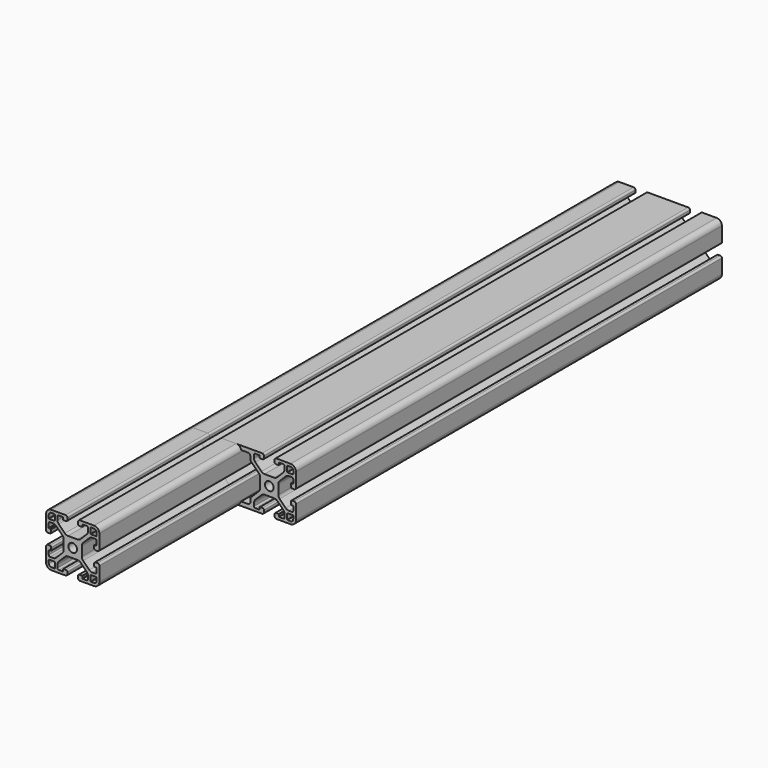
from build123d import *

# Parameters (mm, degrees)
F0_R     = 2.45
F1_DEPTH = 400
F2_R     = 2.45
F3_DEPTH = 300


with BuildPart() as f1:
    # F0 (on Front) → F1 (new body)
    with BuildSketch(Plane.XZ):
        with BuildLine():
            Line((-4, 15), (-12, 15))
            ThreePointArc((-12, 15), (-14.12132, 14.12132), (-15, 12))
            Line((-15, 12), (-15, 4))
            ThreePointArc((-15, 4), (-14.707107, 3.292893), (-14, 3))
            Line((-14, 3), (-12.85, 3))
            ThreePointArc((-12.85, 3), (-12.31967, 3.21967), (-12.1, 3.75))
            Line((-12.1, 3.75), (-12.1, 5.2))
            ThreePointArc((-12.1, 5.2), (-12.158579, 5.341421), (-12.3, 5.4))
            Line((-12.3, 5.4), (-13.3, 5.4))
            ThreePointArc((-13.3, 5.4), (-13.441421, 5.458579), (-13.5, 5.6))
            Line((-13.5, 5.6), (-13.5, 7.85))
            ThreePointArc((-13.5, 7.85), (-13.28033, 8.38033), (-12.75, 8.6))
            Line((-12.75, 8.6), (-11.049747, 8.6))
            ThreePointArc((-11.049747, 8.6), (-10.093039, 8.409699), (-9.281981, 7.867767))
            Line((-9.281981, 7.867767), (-5.832233, 4.418019))
            ThreePointArc((-5.832233, 4.418019), (-5.290301, 3.606961), (-5.1, 2.650253))
            Line((-5.1, 2.650253), (-5.1, 0))
            Line((-5.1, 0), (-5.1, -2.650253))
            ThreePointArc((-5.1, -2.650253), (-5.290301, -3.606961), (-5.832233, -4.418019))
            Line((-5.832233, -4.418019), (-9.281981, -7.867767))
            ThreePointArc((-9.281981, -7.867767), (-10.093039, -8.409699), (-11.049747, -8.6))
            Line((-11.049747, -8.6), (-12.75, -8.6))
            ThreePointArc((-12.75, -8.6), (-13.28033, -8.38033), (-13.5, -7.85))
            Line((-13.5, -7.85), (-13.5, -5.6))
            ThreePointArc((-13.5, -5.6), (-13.441421, -5.458579), (-13.3, -5.4))
            Line((-13.3, -5.4), (-12.3, -5.4))
            ThreePointArc((-12.3, -5.4), (-12.158579, -5.341421), (-12.1, -5.2))
            Line((-12.1, -5.2), (-12.1, -3.75))
            ThreePointArc((-12.1, -3.75), (-12.31967, -3.21967), (-12.85, -3))
            Line((-12.85, -3), (-14, -3))
            ThreePointArc((-14, -3), (-14.707107, -3.292893), (-15, -4))
            Line((-15, -4), (-15, -12))
            ThreePointArc((-15, -12), (-14.12132, -14.12132), (-12, -15))
            Line((-12, -15), (-4, -15))
            ThreePointArc((-4, -15), (-3.292893, -14.707107), (-3, -14))
            Line((-3, -14), (-3, -12.85))
            ThreePointArc((-3, -12.85), (-3.21967, -12.31967), (-3.75, -12.1))
            Line((-3.75, -12.1), (-5.2, -12.1))
            ThreePointArc((-5.2, -12.1), (-5.341421, -12.158579), (-5.4, -12.3))
            Line((-5.4, -12.3), (-5.4, -13.3))
            ThreePointArc((-5.4, -13.3), (-5.458579, -13.441421), (-5.6, -13.5))
            Line((-5.6, -13.5), (-7.85, -13.5))
            ThreePointArc((-7.85, -13.5), (-8.38033, -13.28033), (-8.6, -12.75))
            Line((-8.6, -12.75), (-8.6, -11.049747))
            ThreePointArc((-8.6, -11.049747), (-8.409699, -10.093039), (-7.867767, -9.281981))
            Line((-7.867767, -9.281981), (-4.418019, -5.832233))
            ThreePointArc((-4.418019, -5.832233), (-3.606961, -5.290301), (-2.650253, -5.1))
            Line((-2.650253, -5.1), (0, -5.1))
            Line((0, -5.1), (2.650253, -5.1))
            ThreePointArc((2.650253, -5.1), (3.606961, -5.290301), (4.418019, -5.832233))
            Line((4.418019, -5.832233), (7.867767, -9.281981))
            ThreePointArc((7.867767, -9.281981), (8.409699, -10.093039), (8.6, -11.049747))
            Line((8.6, -11.049747), (8.6, -12.75))
            ThreePointArc((8.6, -12.75), (8.38033, -13.28033), (7.85, -13.5))
            Line((7.85, -13.5), (5.6, -13.5))
            ThreePointArc((5.6, -13.5), (5.458579, -13.441421), (5.4, -13.3))
            Line((5.4, -13.3), (5.4, -12.3))
            ThreePointArc((5.4, -12.3), (5.341421, -12.158579), (5.2, -12.1))
            Line((5.2, -12.1), (3.75, -12.1))
            ThreePointArc((3.75, -12.1), (3.21967, -12.31967), (3, -12.85))
            Line((3, -12.85), (3, -14))
            ThreePointArc((3, -14), (3.292893, -14.707107), (4, -15))
            Line((4, -15), (12, -15))
            ThreePointArc((12, -15), (14.12132, -14.12132), (15, -12))
            Line((15, -12), (15, -4))
            ThreePointArc((15, -4), (14.707107, -3.292893), (14, -3))
            Line((14, -3), (12.85, -3))
            ThreePointArc((12.85, -3), (12.31967, -3.21967), (12.1, -3.75))
            Line((12.1, -3.75), (12.1, -5.2))
            ThreePointArc((12.1, -5.2), (12.158579, -5.341421), (12.3, -5.4))
            Line((12.3, -5.4), (13.3, -5.4))
            ThreePointArc((13.3, -5.4), (13.441421, -5.458579), (13.5, -5.6))
            Line((13.5, -5.6), (13.5, -7.85))
            ThreePointArc((13.5, -7.85), (13.28033, -8.38033), (12.75, -8.6))
            Line((12.75, -8.6), (11.049747, -8.6))
            ThreePointArc((11.049747, -8.6), (10.093039, -8.409699), (9.281981, -7.867767))
            Line((9.281981, -7.867767), (5.832233, -4.418019))
            ThreePointArc((5.832233, -4.418019), (5.290301, -3.606961), (5.1, -2.650253))
            Line((5.1, -2.650253), (5.1, 0))
            Line((5.1, 0), (5.1, 2.650253))
            ThreePointArc((5.1, 2.650253), (5.290301, 3.606961), (5.832233, 4.418019))
            Line((5.832233, 4.418019), (9.281981, 7.867767))
            ThreePointArc((9.281981, 7.867767), (10.093039, 8.409699), (11.049747, 8.6))
            Line((11.049747, 8.6), (12.75, 8.6))
            ThreePointArc((12.75, 8.6), (13.28033, 8.38033), (13.5, 7.85))
            Line((13.5, 7.85), (13.5, 5.6))
            ThreePointArc((13.5, 5.6), (13.441421, 5.458579), (13.3, 5.4))
            Line((13.3, 5.4), (12.3, 5.4))
            ThreePointArc((12.3, 5.4), (12.158579, 5.341421), (12.1, 5.2))
            Line((12.1, 5.2), (12.1, 3.75))
            ThreePointArc((12.1, 3.75), (12.31967, 3.21967), (12.85, 3))
            Line((12.85, 3), (14, 3))
            ThreePointArc((14, 3), (14.707107, 3.292893), (15, 4))
            Line((15, 4), (15, 12))
            ThreePointArc((15, 12), (14.12132, 14.12132), (12, 15))
            Line((12, 15), (4, 15))
            ThreePointArc((4, 15), (3.292893, 14.707107), (3, 14))
            Line((3, 14), (3, 12.85))
            ThreePointArc((3, 12.85), (3.21967, 12.31967), (3.75, 12.1))
            Line((3.75, 12.1), (5.2, 12.1))
            ThreePointArc((5.2, 12.1), (5.341421, 12.158579), (5.4, 12.3))
            Line((5.4, 12.3), (5.4, 13.3))
            ThreePointArc((5.4, 13.3), (5.458579, 13.441421), (5.6, 13.5))
            Line((5.6, 13.5), (7.85, 13.5))
            ThreePointArc((7.85, 13.5), (8.38033, 13.28033), (8.6, 12.75))
            Line((8.6, 12.75), (8.6, 11.049747))
            ThreePointArc((8.6, 11.049747), (8.409699, 10.093039), (7.867767, 9.281981))
            Line((7.867767, 9.281981), (4.418019, 5.832233))
            ThreePointArc((4.418019, 5.832233), (3.606961, 5.290301), (2.650253, 5.1))
            Line((2.650253, 5.1), (0, 5.1))
            Line((0, 5.1), (-2.650253, 5.1))
            ThreePointArc((-2.650253, 5.1), (-3.606961, 5.290301), (-4.418019, 5.832233))
            Line((-4.418019, 5.832233), (-7.867767, 9.281981))
            ThreePointArc((-7.867767, 9.281981), (-8.409699, 10.093039), (-8.6, 11.049747))
            Line((-8.6, 11.049747), (-8.6, 12.75))
            ThreePointArc((-8.6, 12.75), (-8.38033, 13.28033), (-7.85, 13.5))
            Line((-7.85, 13.5), (-5.6, 13.5))
            ThreePointArc((-5.6, 13.5), (-5.458579, 13.441421), (-5.4, 13.3))
            Line((-5.4, 13.3), (-5.4, 12.3))
            ThreePointArc((-5.4, 12.3), (-5.341421, 12.158579), (-5.2, 12.1))
            Line((-5.2, 12.1), (-3.75, 12.1))
            ThreePointArc((-3.75, 12.1), (-3.21967, 12.31967), (-3, 12.85))
            Line((-3, 12.85), (-3, 14))
            ThreePointArc((-3, 14), (-3.292893, 14.707107), (-4, 15))
        make_face()
        with BuildLine():
            Line((-10.1, -10.3), (-10.1, -13.3))
            ThreePointArc((-10.1, -13.3), (-10.158579, -13.441421), (-10.3, -13.5))
            Line((-10.3, -13.5), (-12, -13.5))
            ThreePointArc((-12, -13.5), (-13.06066, -13.06066), (-13.5, -12))
            Line((-13.5, -12), (-13.5, -10.3))
            ThreePointArc((-13.5, -10.3), (-13.441421, -10.158579), (-13.3, -10.1))
            Line((-13.3, -10.1), (-10.3, -10.1))
            ThreePointArc((-10.3, -10.1), (-10.158579, -10.158579), (-10.1, -10.3))
        make_face(mode=Mode.SUBTRACT)
        with BuildLine():
            ThreePointArc((10.3, -13.5), (10.158579, -13.441421), (10.1, -13.3))
            Line((10.1, -13.3), (10.1, -10.3))
            ThreePointArc((10.1, -10.3), (10.158579, -10.158579), (10.3, -10.1))
            Line((10.3, -10.1), (13.3, -10.1))
            ThreePointArc((13.3, -10.1), (13.441421, -10.158579), (13.5, -10.3))
            Line((13.5, -10.3), (13.5, -12))
            ThreePointArc((13.5, -12), (13.06066, -13.06066), (12, -13.5))
            Line((12, -13.5), (10.3, -13.5))
        make_face(mode=Mode.SUBTRACT)
        with BuildLine():
            ThreePointArc((-13.5, 12), (-13.06066, 13.06066), (-12, 13.5))
            Line((-12, 13.5), (-10.3, 13.5))
            ThreePointArc((-10.3, 13.5), (-10.158579, 13.441421), (-10.1, 13.3))
            Line((-10.1, 13.3), (-10.1, 10.3))
            ThreePointArc((-10.1, 10.3), (-10.158579, 10.158579), (-10.3, 10.1))
            Line((-10.3, 10.1), (-13.3, 10.1))
            ThreePointArc((-13.3, 10.1), (-13.441421, 10.158579), (-13.5, 10.3))
            Line((-13.5, 10.3), (-13.5, 12))
        make_face(mode=Mode.SUBTRACT)
        Circle(F0_R, mode=Mode.SUBTRACT)
        with BuildLine():
            Line((10.1, 10.3), (10.1, 13.3))
            ThreePointArc((10.1, 13.3), (10.158579, 13.441421), (10.3, 13.5))
            Line((10.3, 13.5), (12, 13.5))
            ThreePointArc((12, 13.5), (13.06066, 13.06066), (13.5, 12))
            Line((13.5, 12), (13.5, 10.3))
            ThreePointArc((13.5, 10.3), (13.441421, 10.158579), (13.3, 10.1))
            Line((13.3, 10.1), (10.3, 10.1))
            ThreePointArc((10.3, 10.1), (10.158579, 10.158579), (10.1, 10.3))
        make_face(mode=Mode.SUBTRACT)
    extrude(amount=F1_DEPTH)


with BuildPart() as f3:
    # F2 (on Front) → F3 (new body)
    with BuildSketch(Plane.XZ):
        with BuildLine():
            ThreePointArc((-3, 14), (-3.292893, 14.707107), (-4, 15))
            Line((-4, 15), (-12, 15))
            ThreePointArc((-12, 15), (-14.12132, 14.12132), (-15, 12))
            Line((-15, 12), (-15, 4))
            ThreePointArc((-15, 4), (-14.707107, 3.292893), (-14, 3))
            Line((-14, 3), (-12.85, 3))
            ThreePointArc((-12.85, 3), (-12.31967, 3.21967), (-12.1, 3.75))
            Line((-12.1, 3.75), (-12.1, 5.2))
            ThreePointArc((-12.1, 5.2), (-12.158579, 5.341421), (-12.3, 5.4))
            Line((-12.3, 5.4), (-13.3, 5.4))
            ThreePointArc((-13.3, 5.4), (-13.441421, 5.458579), (-13.5, 5.6))
            Line((-13.5, 5.6), (-13.5, 7.85))
            ThreePointArc((-13.5, 7.85), (-13.28033, 8.38033), (-12.75, 8.6))
            Line((-12.75, 8.6), (-11.049747, 8.6))
            ThreePointArc((-11.049747, 8.6), (-10.093039, 8.409699), (-9.281981, 7.867767))
            Line((-9.281981, 7.867767), (-5.832233, 4.418019))
            ThreePointArc((-5.832233, 4.418019), (-5.290301, 3.606961), (-5.1, 2.650253))
            Line((-5.1, 2.650253), (-5.1, 0))
            Line((-5.1, 0), (-5.1, -2.650253))
            ThreePointArc((-5.1, -2.650253), (-5.290301, -3.606961), (-5.832233, -4.418019))
            Line((-5.832233, -4.418019), (-9.281981, -7.867767))
            ThreePointArc((-9.281981, -7.867767), (-10.093039, -8.409699), (-11.049747, -8.6))
            Line((-11.049747, -8.6), (-12.75, -8.6))
            ThreePointArc((-12.75, -8.6), (-13.28033, -8.38033), (-13.5, -7.85))
            Line((-13.5, -7.85), (-13.5, -5.6))
            ThreePointArc((-13.5, -5.6), (-13.441421, -5.458579), (-13.3, -5.4))
            Line((-13.3, -5.4), (-12.3, -5.4))
            ThreePointArc((-12.3, -5.4), (-12.158579, -5.341421), (-12.1, -5.2))
            Line((-12.1, -5.2), (-12.1, -3.75))
            ThreePointArc((-12.1, -3.75), (-12.31967, -3.21967), (-12.85, -3))
            Line((-12.85, -3), (-14, -3))
            ThreePointArc((-14, -3), (-14.707107, -3.292893), (-15, -4))
            Line((-15, -4), (-15, -12))
            ThreePointArc((-15, -12), (-14.12132, -14.12132), (-12, -15))
            Line((-12, -15), (-4, -15))
            ThreePointArc((-4, -15), (-3.292893, -14.707107), (-3, -14))
            Line((-3, -14), (-3, -12.85))
            ThreePointArc((-3, -12.85), (-3.21967, -12.31967), (-3.75, -12.1))
            Line((-3.75, -12.1), (-5.2, -12.1))
            ThreePointArc((-5.2, -12.1), (-5.341421, -12.158579), (-5.4, -12.3))
            Line((-5.4, -12.3), (-5.4, -13.3))
            ThreePointArc((-5.4, -13.3), (-5.458579, -13.441421), (-5.6, -13.5))
            Line((-5.6, -13.5), (-7.85, -13.5))
            ThreePointArc((-7.85, -13.5), (-8.38033, -13.28033), (-8.6, -12.75))
            Line((-8.6, -12.75), (-8.6, -11.049747))
            ThreePointArc((-8.6, -11.049747), (-8.409699, -10.093039), (-7.867767, -9.281981))
            Line((-7.867767, -9.281981), (-4.418019, -5.832233))
            ThreePointArc((-4.418019, -5.832233), (-3.606961, -5.290301), (-2.650253, -5.1))
            Line((-2.650253, -5.1), (0, -5.1))
            Line((0, -5.1), (2.650253, -5.1))
            ThreePointArc((2.650253, -5.1), (3.606961, -5.290301), (4.418019, -5.832233))
            Line((4.418019, -5.832233), (7.867767, -9.281981))
            ThreePointArc((7.867767, -9.281981), (8.409699, -10.093039), (8.6, -11.049747))
            Line((8.6, -11.049747), (8.6, -12.75))
            ThreePointArc((8.6, -12.75), (8.38033, -13.28033), (7.85, -13.5))
            Line((7.85, -13.5), (5.6, -13.5))
            ThreePointArc((5.6, -13.5), (5.458579, -13.441421), (5.4, -13.3))
            Line((5.4, -13.3), (5.4, -12.3))
            ThreePointArc((5.4, -12.3), (5.341421, -12.158579), (5.2, -12.1))
            Line((5.2, -12.1), (3.75, -12.1))
            ThreePointArc((3.75, -12.1), (3.21967, -12.31967), (3, -12.85))
            Line((3, -12.85), (3, -14))
            ThreePointArc((3, -14), (3.292893, -14.707107), (4, -15))
            Line((4, -15), (26.75, -15))
            ThreePointArc((26.75, -15), (27.457107, -14.707107), (27.75, -14))
            Line((27.75, -14), (27.75, -12.85))
            ThreePointArc((27.75, -12.85), (27.53033, -12.31967), (27, -12.1))
            Line((27, -12.1), (25.55, -12.1))
            ThreePointArc((25.55, -12.1), (25.408579, -12.158579), (25.35, -12.3))
            Line((25.35, -12.3), (25.35, -13.3))
            ThreePointArc((25.35, -13.3), (25.291421, -13.441421), (25.15, -13.5))
            Line((25.15, -13.5), (22.9, -13.5))
            ThreePointArc((22.9, -13.5), (22.36967, -13.28033), (22.15, -12.75))
            Line((22.15, -12.75), (22.15, -11.049747))
            ThreePointArc((22.15, -11.049747), (22.340301, -10.093039), (22.882233, -9.281981))
            Line((22.882233, -9.281981), (26.331981, -5.832233))
            ThreePointArc((26.331981, -5.832233), (27.143039, -5.290301), (28.099747, -5.1))
            Line((28.099747, -5.1), (30.75, -5.1))
            Line((30.75, -5.1), (33.400253, -5.1))
            ThreePointArc((33.400253, -5.1), (34.356961, -5.290301), (35.168019, -5.832233))
            Line((35.168019, -5.832233), (38.617767, -9.281981))
            ThreePointArc((38.617767, -9.281981), (39.159699, -10.093039), (39.35, -11.049747))
            Line((39.35, -11.049747), (39.35, -12.75))
            ThreePointArc((39.35, -12.75), (39.13033, -13.28033), (38.6, -13.5))
            Line((38.6, -13.5), (36.35, -13.5))
            ThreePointArc((36.35, -13.5), (36.208579, -13.441421), (36.15, -13.3))
            Line((36.15, -13.3), (36.15, -12.3))
            ThreePointArc((36.15, -12.3), (36.091421, -12.158579), (35.95, -12.1))
            Line((35.95, -12.1), (34.5, -12.1))
            ThreePointArc((34.5, -12.1), (33.96967, -12.31967), (33.75, -12.85))
            Line((33.75, -12.85), (33.75, -14))
            ThreePointArc((33.75, -14), (34.042893, -14.707107), (34.75, -15))
            Line((34.75, -15), (42.75, -15))
            ThreePointArc((42.75, -15), (44.87132, -14.12132), (45.75, -12))
            Line((45.75, -12), (45.75, -4))
            ThreePointArc((45.75, -4), (45.457107, -3.292893), (44.75, -3))
            Line((44.75, -3), (43.6, -3))
            ThreePointArc((43.6, -3), (43.06967, -3.21967), (42.85, -3.75))
            Line((42.85, -3.75), (42.85, -5.2))
            ThreePointArc((42.85, -5.2), (42.908579, -5.341421), (43.05, -5.4))
            Line((43.05, -5.4), (44.05, -5.4))
            ThreePointArc((44.05, -5.4), (44.191421, -5.458579), (44.25, -5.6))
            Line((44.25, -5.6), (44.25, -7.85))
            ThreePointArc((44.25, -7.85), (44.03033, -8.38033), (43.5, -8.6))
            Line((43.5, -8.6), (41.799747, -8.6))
            ThreePointArc((41.799747, -8.6), (40.843039, -8.409699), (40.031981, -7.867767))
            Line((40.031981, -7.867767), (36.582233, -4.418019))
            ThreePointArc((36.582233, -4.418019), (36.040301, -3.606961), (35.85, -2.650253))
            Line((35.85, -2.650253), (35.85, 0))
            Line((35.85, 0), (35.85, 2.650253))
            ThreePointArc((35.85, 2.650253), (36.040301, 3.606961), (36.582233, 4.418019))
            Line((36.582233, 4.418019), (40.031981, 7.867767))
            ThreePointArc((40.031981, 7.867767), (40.843039, 8.409699), (41.799747, 8.6))
            Line((41.799747, 8.6), (43.5, 8.6))
            ThreePointArc((43.5, 8.6), (44.03033, 8.38033), (44.25, 7.85))
            Line((44.25, 7.85), (44.25, 5.6))
            ThreePointArc((44.25, 5.6), (44.191421, 5.458579), (44.05, 5.4))
            Line((44.05, 5.4), (43.05, 5.4))
            ThreePointArc((43.05, 5.4), (42.908579, 5.341421), (42.85, 5.2))
            Line((42.85, 5.2), (42.85, 3.75))
            ThreePointArc((42.85, 3.75), (43.06967, 3.21967), (43.6, 3))
            Line((43.6, 3), (44.75, 3))
            ThreePointArc((44.75, 3), (45.457107, 3.292893), (45.75, 4))
            Line((45.75, 4), (45.75, 12))
            ThreePointArc((45.75, 12), (44.87132, 14.12132), (42.75, 15))
            Line((42.75, 15), (34.75, 15))
            ThreePointArc((34.75, 15), (34.042893, 14.707107), (33.75, 14))
            Line((33.75, 14), (33.75, 12.85))
            ThreePointArc((33.75, 12.85), (33.96967, 12.31967), (34.5, 12.1))
            Line((34.5, 12.1), (35.95, 12.1))
            ThreePointArc((35.95, 12.1), (36.091421, 12.158579), (36.15, 12.3))
            Line((36.15, 12.3), (36.15, 13.3))
            ThreePointArc((36.15, 13.3), (36.208579, 13.441421), (36.35, 13.5))
            Line((36.35, 13.5), (38.6, 13.5))
            ThreePointArc((38.6, 13.5), (39.13033, 13.28033), (39.35, 12.75))
            Line((39.35, 12.75), (39.35, 11.049747))
            ThreePointArc((39.35, 11.049747), (39.159699, 10.093039), (38.617767, 9.281981))
            Line((38.617767, 9.281981), (35.168019, 5.832233))
            ThreePointArc((35.168019, 5.832233), (34.356961, 5.290301), (33.400253, 5.1))
            Line((33.400253, 5.1), (30.75, 5.1))
            Line((30.75, 5.1), (28.099747, 5.1))
            ThreePointArc((28.099747, 5.1), (27.143039, 5.290301), (26.331981, 5.832233))
            Line((26.331981, 5.832233), (22.882233, 9.281981))
            ThreePointArc((22.882233, 9.281981), (22.340301, 10.093039), (22.15, 11.049747))
            Line((22.15, 11.049747), (22.15, 12.75))
            ThreePointArc((22.15, 12.75), (22.36967, 13.28033), (22.9, 13.5))
            Line((22.9, 13.5), (25.15, 13.5))
            ThreePointArc((25.15, 13.5), (25.291421, 13.441421), (25.35, 13.3))
            Line((25.35, 13.3), (25.35, 12.3))
            ThreePointArc((25.35, 12.3), (25.408579, 12.158579), (25.55, 12.1))
            Line((25.55, 12.1), (27, 12.1))
            ThreePointArc((27, 12.1), (27.53033, 12.31967), (27.75, 12.85))
            Line((27.75, 12.85), (27.75, 14))
            ThreePointArc((27.75, 14), (27.457107, 14.707107), (26.75, 15))
            Line((26.75, 15), (4, 15))
            ThreePointArc((4, 15), (3.292893, 14.707107), (3, 14))
            Line((3, 14), (3, 12.85))
            ThreePointArc((3, 12.85), (3.21967, 12.31967), (3.75, 12.1))
            Line((3.75, 12.1), (5.2, 12.1))
            ThreePointArc((5.2, 12.1), (5.341421, 12.158579), (5.4, 12.3))
            Line((5.4, 12.3), (5.4, 13.3))
            ThreePointArc((5.4, 13.3), (5.458579, 13.441421), (5.6, 13.5))
            Line((5.6, 13.5), (7.85, 13.5))
            ThreePointArc((7.85, 13.5), (8.38033, 13.28033), (8.6, 12.75))
            Line((8.6, 12.75), (8.6, 11.049747))
            ThreePointArc((8.6, 11.049747), (8.409699, 10.093039), (7.867767, 9.281981))
            Line((7.867767, 9.281981), (4.418019, 5.832233))
            ThreePointArc((4.418019, 5.832233), (3.606961, 5.290301), (2.650253, 5.1))
            Line((2.650253, 5.1), (0, 5.1))
            Line((0, 5.1), (-2.650253, 5.1))
            ThreePointArc((-2.650253, 5.1), (-3.606961, 5.290301), (-4.418019, 5.832233))
            Line((-4.418019, 5.832233), (-7.867767, 9.281981))
            ThreePointArc((-7.867767, 9.281981), (-8.409699, 10.093039), (-8.6, 11.049747))
            Line((-8.6, 11.049747), (-8.6, 12.75))
            ThreePointArc((-8.6, 12.75), (-8.38033, 13.28033), (-7.85, 13.5))
            Line((-7.85, 13.5), (-5.6, 13.5))
            ThreePointArc((-5.6, 13.5), (-5.458579, 13.441421), (-5.4, 13.3))
            Line((-5.4, 13.3), (-5.4, 12.3))
            ThreePointArc((-5.4, 12.3), (-5.341421, 12.158579), (-5.2, 12.1))
            Line((-5.2, 12.1), (-3.75, 12.1))
            ThreePointArc((-3.75, 12.1), (-3.21967, 12.31967), (-3, 12.85))
            Line((-3, 12.85), (-3, 14))
        make_face()
        with BuildLine():
            ThreePointArc((-10.1, -13.3), (-10.158579, -13.441421), (-10.3, -13.5))
            Line((-10.3, -13.5), (-12, -13.5))
            ThreePointArc((-12, -13.5), (-13.06066, -13.06066), (-13.5, -12))
            Line((-13.5, -12), (-13.5, -10.3))
            ThreePointArc((-13.5, -10.3), (-13.441421, -10.158579), (-13.3, -10.1))
            Line((-13.3, -10.1), (-10.3, -10.1))
            ThreePointArc((-10.3, -10.1), (-10.158579, -10.158579), (-10.1, -10.3))
            Line((-10.1, -10.3), (-10.1, -13.3))
        make_face(mode=Mode.SUBTRACT)
        with BuildLine():
            ThreePointArc((44.05, -10.1), (44.191421, -10.158579), (44.25, -10.3))
            Line((44.25, -10.3), (44.25, -12))
            ThreePointArc((44.25, -12), (43.81066, -13.06066), (42.75, -13.5))
            Line((42.75, -13.5), (41.05, -13.5))
            ThreePointArc((41.05, -13.5), (40.908579, -13.441421), (40.85, -13.3))
            Line((40.85, -13.3), (40.85, -10.3))
            ThreePointArc((40.85, -10.3), (40.908579, -10.158579), (41.05, -10.1))
            Line((41.05, -10.1), (44.05, -10.1))
        make_face(mode=Mode.SUBTRACT)
        Circle(F2_R, mode=Mode.SUBTRACT)
        with BuildLine():
            Line((-12, 13.5), (-10.3, 13.5))
            ThreePointArc((-10.3, 13.5), (-10.158579, 13.441421), (-10.1, 13.3))
            Line((-10.1, 13.3), (-10.1, 10.3))
            ThreePointArc((-10.1, 10.3), (-10.158579, 10.158579), (-10.3, 10.1))
            Line((-10.3, 10.1), (-13.3, 10.1))
            ThreePointArc((-13.3, 10.1), (-13.441421, 10.158579), (-13.5, 10.3))
            Line((-13.5, 10.3), (-13.5, 12))
            ThreePointArc((-13.5, 12), (-13.06066, 13.06066), (-12, 13.5))
        make_face(mode=Mode.SUBTRACT)
        with BuildLine():
            Line((10.185056, -8.770842), (9.281981, -7.867767))
            Line((9.281981, -7.867767), (5.832233, -4.418019))
            ThreePointArc((5.832233, -4.418019), (5.290301, -3.606961), (5.1, -2.650253))
            Line((5.1, -2.650253), (5.1, 0))
            Line((5.1, 0), (5.1, 2.650253))
            ThreePointArc((5.1, 2.650253), (5.290301, 3.606961), (5.832233, 4.418019))
            Line((5.832233, 4.418019), (9.281981, 7.867767))
            Line((9.281981, 7.867767), (10.185056, 8.770842))
            ThreePointArc((10.185056, 8.770842), (10.510215, 9.257477), (10.624396, 9.831502))
            Line((10.624396, 9.831502), (10.624396, 11.25))
            ThreePointArc((10.624396, 11.25), (11.063736, 12.31066), (12.124396, 12.75))
            Line((12.124396, 12.75), (18.625604, 12.75))
            ThreePointArc((18.625604, 12.75), (19.686264, 12.31066), (20.125604, 11.25))
            Line((20.125604, 11.25), (20.125604, 9.831502))
            ThreePointArc((20.125604, 9.831502), (20.239785, 9.257477), (20.564944, 8.770842))
            Line((20.564944, 8.770842), (21.468019, 7.867767))
            Line((21.468019, 7.867767), (24.917767, 4.418019))
            ThreePointArc((24.917767, 4.418019), (25.459699, 3.606961), (25.65, 2.650253))
            Line((25.65, 2.650253), (25.65, 0))
            Line((25.65, 0), (25.65, -2.650253))
            ThreePointArc((25.65, -2.650253), (25.459699, -3.606961), (24.917767, -4.418019))
            Line((24.917767, -4.418019), (21.468019, -7.867767))
            Line((21.468019, -7.867767), (20.564944, -8.770842))
            ThreePointArc((20.564944, -8.770842), (20.239785, -9.257477), (20.125604, -9.831502))
            Line((20.125604, -9.831502), (20.125604, -11.25))
            ThreePointArc((20.125604, -11.25), (19.686264, -12.31066), (18.625604, -12.75))
            Line((18.625604, -12.75), (12.124396, -12.75))
            ThreePointArc((12.124396, -12.75), (11.063736, -12.31066), (10.624396, -11.25))
            Line((10.624396, -11.25), (10.624396, -9.831502))
            ThreePointArc((10.624396, -9.831502), (10.510215, -9.257477), (10.185056, -8.770842))
        make_face(mode=Mode.SUBTRACT)
        with Locations((30.75, 0)):
            Circle(F2_R, mode=Mode.SUBTRACT)
        with BuildLine():
            Line((41.05, 13.5), (42.75, 13.5))
            ThreePointArc((42.75, 13.5), (43.81066, 13.06066), (44.25, 12))
            Line((44.25, 12), (44.25, 10.3))
            ThreePointArc((44.25, 10.3), (44.191421, 10.158579), (44.05, 10.1))
            Line((44.05, 10.1), (41.05, 10.1))
            ThreePointArc((41.05, 10.1), (40.908579, 10.158579), (40.85, 10.3))
            Line((40.85, 10.3), (40.85, 13.3))
            ThreePointArc((40.85, 13.3), (40.908579, 13.441421), (41.05, 13.5))
        make_face(mode=Mode.SUBTRACT)
    extrude(amount=F3_DEPTH)


solid = Compound([f1.part, f3.part])
